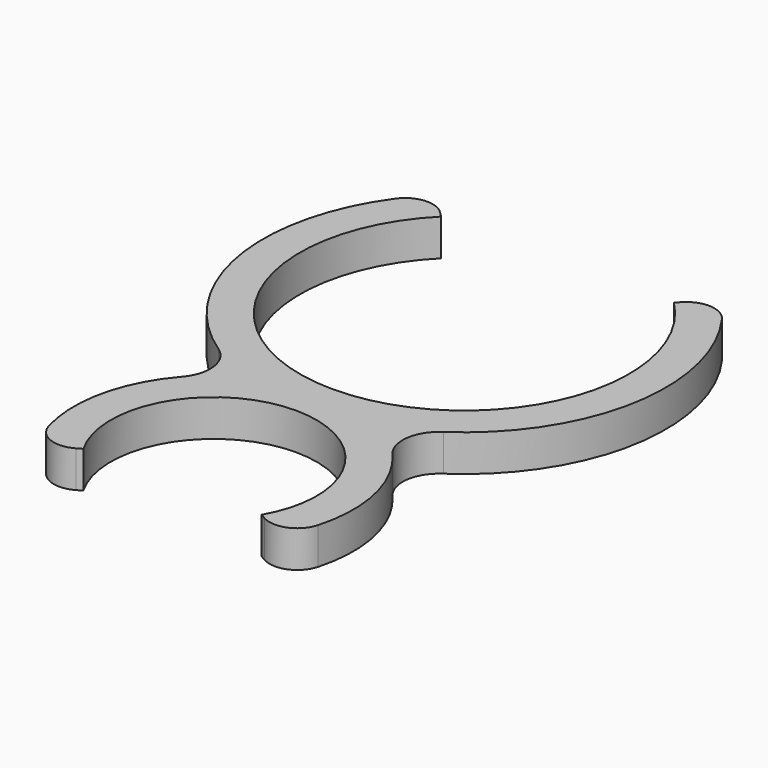
from build123d import *

# Parameters (mm, degrees)
F2_DEPTH = 2


with BuildPart() as f2:
    # F0 (on Top) → F2 (new body, symmetric)
    with BuildSketch(Plane.XY):
        with BuildLine():
            ThreePointArc((12.657211, 33.057211), (0, 2.5), (-12.657211, 33.057211))
            Line((-12.657211, 33.057211), (-13.194885, 33.594885))
            ThreePointArc((-13.194885, 33.594885), (-15.555059, 34.464041), (-17.747349, 33.231274))
            ThreePointArc((-17.747349, 33.231274), (-21.561721, 16.565655), (-12.235572, 2.236829))
            ThreePointArc((-12.235572, 2.236829), (-10.50434, -0.560519), (-11.455717, -3.709677))
            ThreePointArc((-11.455717, -3.709677), (-14.830274, -10.367886), (-14.628248, -17.829693))
            ThreePointArc((-14.628248, -17.829693), (-12.870618, -19.793862), (-10.241094, -19.612698))
            Line((-10.241094, -19.612698), (-9.699485, -19.3))
            ThreePointArc((-9.699485, -19.3), (0, -2.5), (9.699485, -19.3))
            Line((9.699485, -19.3), (10.241094, -19.612698))
            ThreePointArc((10.241094, -19.612698), (12.870618, -19.793862), (14.628248, -17.829693))
            ThreePointArc((14.628248, -17.829693), (14.830274, -10.367886), (11.455717, -3.709677))
            ThreePointArc((11.455717, -3.709677), (10.50434, -0.560519), (12.235572, 2.236829))
            ThreePointArc((12.235572, 2.236829), (21.561721, 16.565655), (17.747349, 33.231274))
            ThreePointArc((17.747349, 33.231274), (15.555059, 34.464041), (13.194885, 33.594885))
            Line((13.194885, 33.594885), (12.657211, 33.057211))
        make_face()
    extrude(amount=F2_DEPTH, both=True)


solid = f2.part
